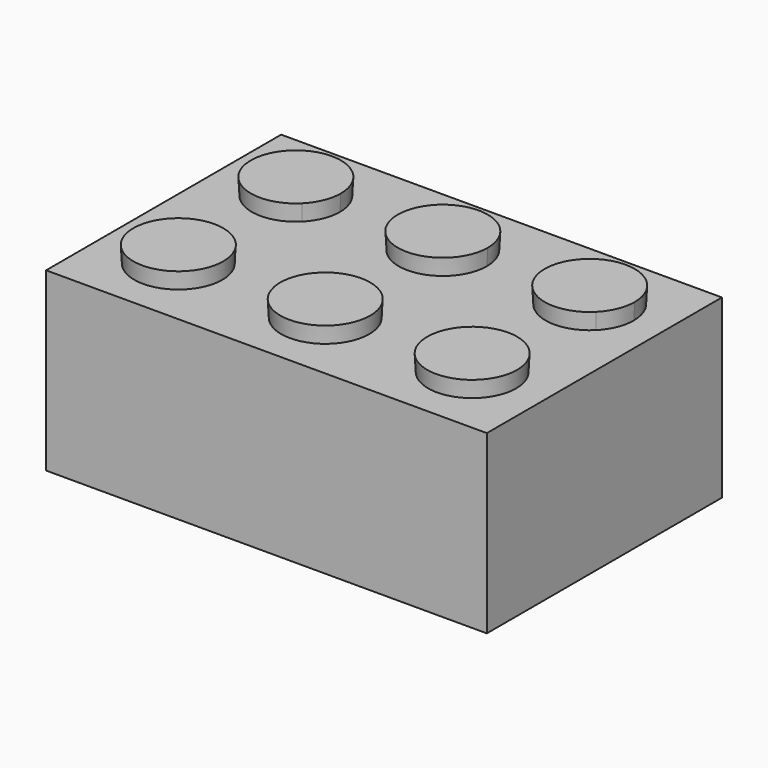
from build123d import *

# Parameters (mm, degrees)
F0_W     = 24
F0_H     = 16
F1_DEPTH = 9.6
F2_R     = 2.4
F3_DEPTH = 0.9
F3_TAPER = -3


with BuildPart() as f1:
    # F0 (on Top) → F1 (new body)
    with BuildSketch(Plane.XY):
        with Locations((-12, 8)):
            Rectangle(F0_W, F0_H)
    extrude(amount=F1_DEPTH)

    # F2 (on face) → F3 (join, symmetric)
    with BuildSketch(Plane.XY.offset(9.6)):
        with Locations((-19.9995, 4)):
            Circle(F2_R)
        with Locations((-11.9985, 4)):
            Circle(F2_R)
        with Locations((-3.999, 4)):
            Circle(F2_R)
        with BuildLine():
            ThreePointArc((-5.695844103, 13.6972684201), (-5.6962684201, 10.303155897), (-2.302155897, 10.3027315799))
            Line((-2.302155897, 10.3027315799), (-5.695844103, 13.6972684201))
        make_face()
        with BuildLine():
            Line((-5.695844103, 13.6972684201), (-2.302155897, 10.3027315799))
            ThreePointArc((-2.302155897, 10.3027315799), (-1.781746536, 11.0814211649), (-1.599, 12))
            ThreePointArc((-1.599, 12), (-3.0804211649, 14.217253464), (-5.695844103, 13.6972684201))
        make_face()
        with BuildLine():
            Line((-21.6966623309, 13.6969502121), (-18.3023376691, 10.3030497879))
            ThreePointArc((-18.3023376691, 10.3030497879), (-17.7821604236, 11.0816290494), (-17.5995, 12))
            ThreePointArc((-17.5995, 12), (-19.0811290494, 14.2173395764), (-21.6966623309, 13.6969502121))
        make_face()
        with BuildLine():
            ThreePointArc((-21.6966623309, 13.6969502121), (-21.6964502121, 10.3028376691), (-18.3023376691, 10.3030497879))
            Line((-18.3023376691, 10.3030497879), (-21.6966623309, 13.6969502121))
        make_face()
        with BuildLine():
            Line((-10.3013376691, 13.6969502121), (-13.6956623309, 10.3030497879))
            ThreePointArc((-13.6956623309, 10.3030497879), (-11.0801290494, 9.7826604236), (-9.5985, 12))
            ThreePointArc((-9.5985, 12), (-9.7811604236, 12.9183709506), (-10.3013376691, 13.6969502121))
        make_face()
        with BuildLine():
            ThreePointArc((-10.3013376691, 13.6969502121), (-13.6954502121, 13.6971623309), (-13.6956623309, 10.3030497879))
            Line((-13.6956623309, 10.3030497879), (-10.3013376691, 13.6969502121))
        make_face()
    extrude(amount=F3_DEPTH, both=True, taper=F3_TAPER)


solid = f1.part
